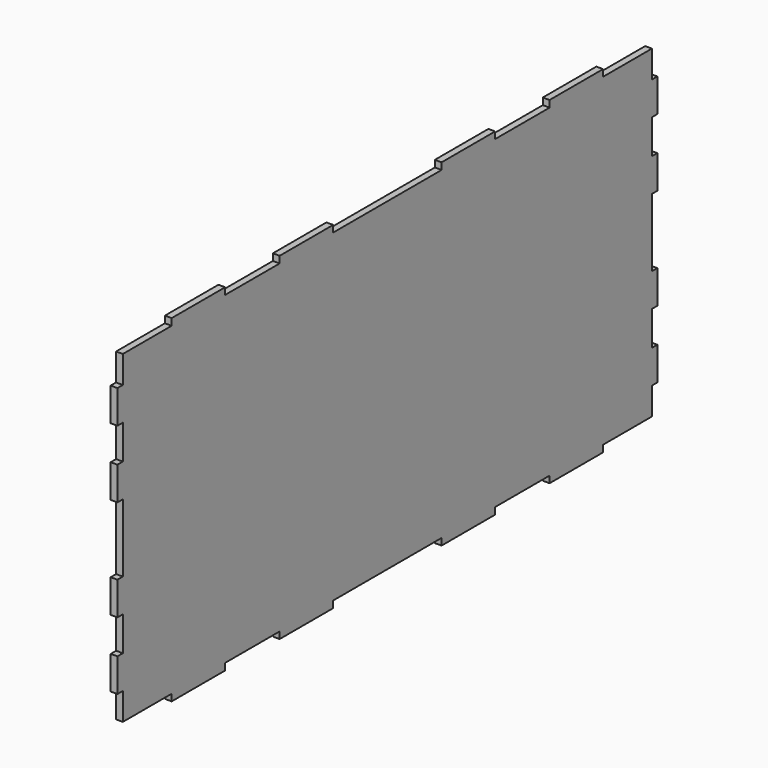
from build123d import *

# Parameters (mm, degrees)
F1_DEPTH = 3


with BuildPart() as f1:
    # F0 (on Right) → F1 (new body)
    with BuildSketch(Plane.YZ):
        Polygon((-119.875, -72), (-119.875, -75), (-90.125, -75), (-90.125, -72), (-59.875, -72), (-59.875, -75), (-30.125, -75), (-30.125, -72), (0, -72), (30.125, -72), (30.125, -75), (59.875, -75), (59.875, -72), (90.125, -72), (90.125, -75), (119.875, -75), (119.875, -72), (147, -72), (147, -59.875), (150, -59.875), (150, -45.125), (147, -45.125), (147, -29.875), (150, -29.875), (150, -15.125), (147, -15.125), (147, 15.125), (150, 15.125), (150, 29.875), (147, 29.875), (147, 45.125), (150, 45.125), (150, 59.875), (147, 59.875), (147, 72), (119.875, 72), (119.875, 75), (90.125, 75), (90.125, 72), (59.875, 72), (59.875, 75), (30.125, 75), (30.125, 72), (0, 72), (-30.125, 72), (-30.125, 75), (-59.875, 75), (-59.875, 72), (-90.125, 72), (-90.125, 75), (-119.875, 75), (-119.875, 72), (-147, 72), (-147, 59.875), (-150, 59.875), (-150, 45.125), (-147, 45.125), (-147, 29.875), (-150, 29.875), (-150, 15.125), (-147, 15.125), (-147, -15.125), (-150, -15.125), (-150, -29.875), (-147, -29.875), (-147, -45.125), (-150, -45.125), (-150, -59.875), (-147, -59.875), (-147, -72), align=None)
    extrude(amount=F1_DEPTH)


solid = f1.part
